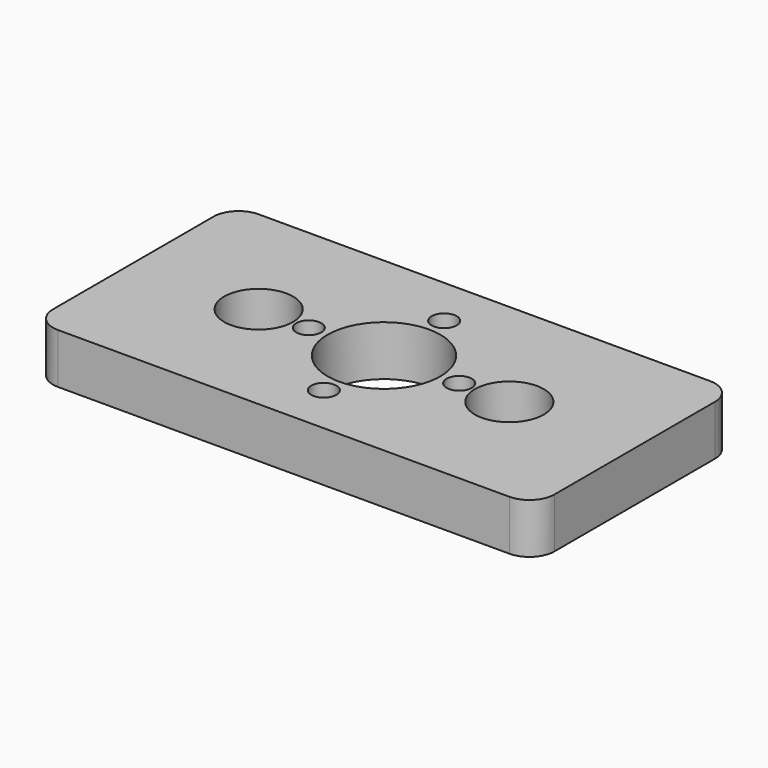
from build123d import *

# Parameters (mm, degrees)
F6_W     = 40
F6_H     = 20
F6_R     = 6
F7_DEPTH = 4
F0_D     = 2
F1_D     = 9
F2_R     = 2
F4_D     = 5.5


with BuildPart() as f7:
    # F6 (on Top) → F7 (new body)
    with BuildSketch(Plane.XY):
        Rectangle(F6_W, F6_H)
        Circle(F6_R, mode=Mode.SUBTRACT)
        Circle(F6_R)
    extrude(amount=F7_DEPTH)

    # F0 (through all)
    with Locations(Plane(origin=(0, 0, 0), x_dir=(1, 0, 0), z_dir=(0, 0, -1))):
        with Locations((0, -6), (-6, 0), (6, 0), (0, 6)):
            Hole(F0_D / 2)

    # F1 (through all)
    with Locations(Plane.XY.offset(4)):
        with Locations((0, 0)):
            Hole(F1_D / 2)

    # F2
    f2_edges = [f7.edges().sort_by_distance(p)[0] for p in [
        (20, 10, 2),
        (20, -10, 2),
        (-20, -10, 2),
        (-20, 10, 2),
    ]]
    fillet(f2_edges, radius=F2_R)

    # F4 (through all)
    with Locations(Plane.XY.offset(4)):
        with Locations((10, 0), (-10, 0)):
            Hole(F4_D / 2)


solid = f7.part
